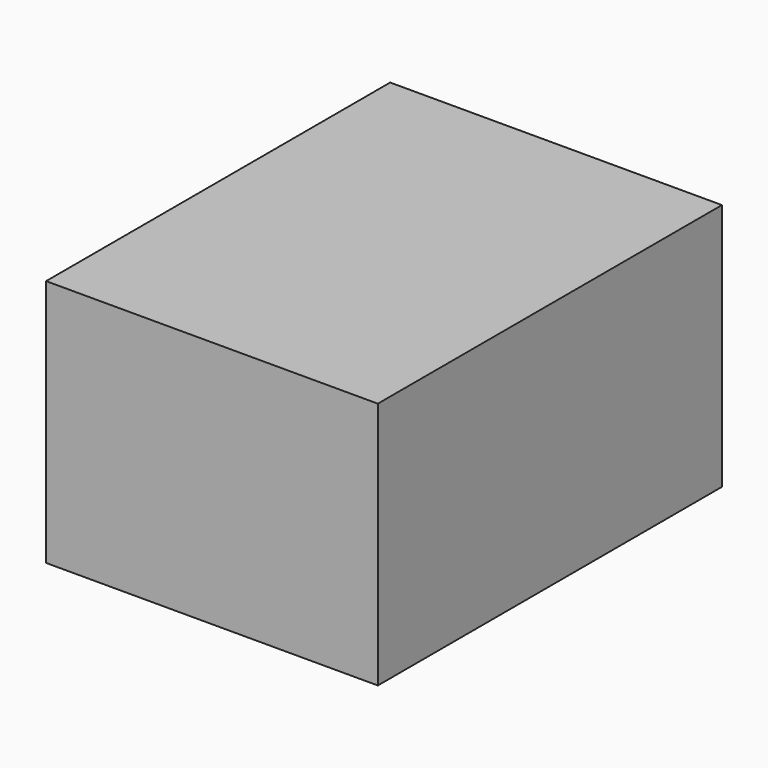
from build123d import *

# Parameters (mm, degrees)
F0_W     = 67.9279565811
F0_H     = 88.0647003651
F1_DEPTH = 25.4
F2_DEPTH = 25.4
F3_DEPTH = 25.4


with BuildPart() as f1:
    # F0 (on Top) → F1 (new body)
    with BuildSketch(Plane.XY):
        Rectangle(F0_W, F0_H)
    extrude(amount=F1_DEPTH)

    # F2 (add): a face of the model
    f2_faces = [f1.faces().sort_by_distance(p)[0] for p in [
        (0, 0, 0),
    ]]
    extrude(f2_faces, amount=F2_DEPTH)

    # F0 (on Top) → F3 (join)
    with BuildSketch(Plane.XY):
        Rectangle(F0_W, F0_H)
    extrude(amount=F3_DEPTH)


solid = f1.part
